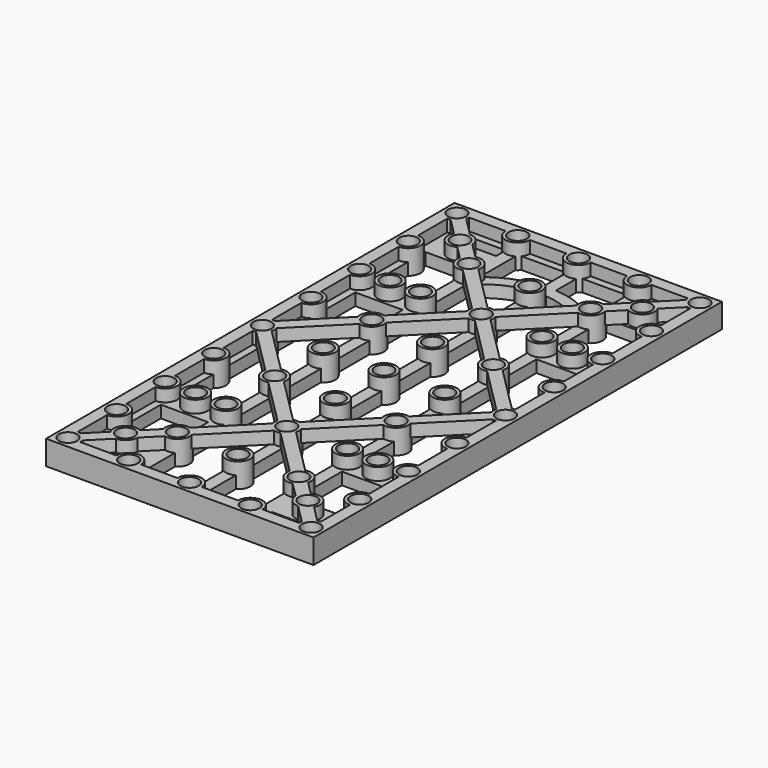
from build123d import *

# Parameters (mm, degrees)
SKETCH182_W             = 210
SKETCH182_H             = 110
SKETCH182_W_2           = 194
SKETCH182_H_2           = 94
PAD081_DEPTH            = 5
SKETCH183_W             = 200
SKETCH183_H             = 5
PAD082_DEPTH            = 5
SKETCH184_W             = 210
SKETCH184_H             = 110
SKETCH184_W_2           = 200
SKETCH184_H_2           = 100
PAD083_DEPTH            = 5
PAD084_DEPTH            = 5
SKETCH186_R             = 5
PAD085_DEPTH            = 5
SKETCH201_W             = 12
SKETCH201_H             = 25
PAD091_DEPTH            = 5
SKETCH202_R             = 5
PAD092_DEPTH            = 5
PAD093_DEPTH            = 5
SKETCH208_R             = 2.25
POCKET081_DEPTH         = 5
SKETCH209_R             = 3.75
POCKET082_DEPTH         = 4
POCKET083_DEPTH         = 3.5
BODY023_ROLL_ANGLE      = 180
BODY023_PLACEMENT_ANGLE = -90


with BuildPart() as part:
    # Sketch182 → Pad081 (new body)
    with BuildSketch(Plane.XY):
        Rectangle(SKETCH182_W, SKETCH182_H)
        Rectangle(SKETCH182_W_2, SKETCH182_H_2, mode=Mode.SUBTRACT)
    extrude(amount=PAD081_DEPTH)

    # Sketch183 → Pad082 (join)
    with BuildSketch(Plane.XY):
        with Locations((0, 25)):
            Rectangle(SKETCH183_W, SKETCH183_H)
        Rectangle(SKETCH183_W, SKETCH183_H)
        with Locations((0, -25)):
            Rectangle(SKETCH183_W, SKETCH183_H)
    extrude(amount=PAD082_DEPTH)

    # Sketch184 → Pad083 (join)
    with BuildSketch(Plane.XY):
        Rectangle(SKETCH184_W, SKETCH184_H)
        Rectangle(SKETCH184_W_2, SKETCH184_H_2, mode=Mode.SUBTRACT)
    extrude(amount=-PAD083_DEPTH)

    # Sketch185 → Pad084 (join)
    with BuildSketch(Plane.XY):
        Polygon((-100, 46.464466), (-53.535534, 0), (-100, -46.464466), (-100, -50), (-96.464466, -50), (-50, -3.535534), (-3.535534, -50), (3.535534, -50), (50, -3.535534), (96.464466, -50), (100, -50), (100, -46.464466), (53.535534, 0), (100, 46.464466), (100, 50), (96.464466, 50), (50, 3.535534), (3.535534, 50), (-3.535534, 50), (-50, 3.535534), (-96.464466, 50), (-100, 50), align=None)
        Polygon((0, 46.464466), (46.464466, 0), (0, -46.464466), (-46.464466, 0), align=None, mode=Mode.SUBTRACT)
    extrude(amount=-PAD084_DEPTH)

    # Sketch186 → Pad085 (join, symmetric)
    with BuildSketch(Plane.XY):
        with Locations((-100, 50)):
            Circle(SKETCH186_R)
        with Locations((-75, 50)):
            Circle(SKETCH186_R)
        with Locations((-50, 50)):
            Circle(SKETCH186_R)
        with Locations((-25, 50)):
            Circle(SKETCH186_R)
        with Locations((0, 50)):
            Circle(SKETCH186_R)
        with Locations((25, 50)):
            Circle(SKETCH186_R)
        with Locations((50, 50)):
            Circle(SKETCH186_R)
        with Locations((75, 50)):
            Circle(SKETCH186_R)
        with Locations((100, 50)):
            Circle(SKETCH186_R)
        with Locations((-100, 25)):
            Circle(SKETCH186_R)
        with Locations((-75, 25)):
            Circle(SKETCH186_R)
        with Locations((-50, 25)):
            Circle(SKETCH186_R)
        with Locations((-25, 25)):
            Circle(SKETCH186_R)
        with Locations((0, 25)):
            Circle(SKETCH186_R)
        with Locations((25, 25)):
            Circle(SKETCH186_R)
        with Locations((50, 25)):
            Circle(SKETCH186_R)
        with Locations((75, 25)):
            Circle(SKETCH186_R)
        with Locations((100, 0)):
            Circle(SKETCH186_R)
        with Locations((100, 25)):
            Circle(SKETCH186_R)
        with Locations((100, -25)):
            Circle(SKETCH186_R)
        with Locations((100, -50)):
            Circle(SKETCH186_R)
        with Locations((75, -50)):
            Circle(SKETCH186_R)
        with Locations((50, -50)):
            Circle(SKETCH186_R)
        with Locations((25, -50)):
            Circle(SKETCH186_R)
        with Locations((0, -50)):
            Circle(SKETCH186_R)
        with Locations((-25, -50)):
            Circle(SKETCH186_R)
        with Locations((-50, -50)):
            Circle(SKETCH186_R)
        with Locations((-75, -50)):
            Circle(SKETCH186_R)
        with Locations((-100, -50)):
            Circle(SKETCH186_R)
        with Locations((-100, -25)):
            Circle(SKETCH186_R)
        with Locations((-100, 0)):
            Circle(SKETCH186_R)
        with Locations((-75, 0)):
            Circle(SKETCH186_R)
        with Locations((-75, -25)):
            Circle(SKETCH186_R)
        with Locations((-50, 0)):
            Circle(SKETCH186_R)
        with Locations((-50, -25)):
            Circle(SKETCH186_R)
        with Locations((-25, 0)):
            Circle(SKETCH186_R)
        with Locations((-25, -25)):
            Circle(SKETCH186_R)
        Circle(SKETCH186_R)
        with Locations((25, -25)):
            Circle(SKETCH186_R)
        with Locations((25, 0)):
            Circle(SKETCH186_R)
        with Locations((50, 0)):
            Circle(SKETCH186_R)
        with Locations((50, -25)):
            Circle(SKETCH186_R)
        with Locations((0, -25)):
            Circle(SKETCH186_R)
        with Locations((75, 0)):
            Circle(SKETCH186_R)
        with Locations((75, -25)):
            Circle(SKETCH186_R)
    extrude(amount=PAD085_DEPTH, both=True)

    # Sketch201 → Pad091 (join)
    with BuildSketch(Plane.XY):
        with Locations((86, -37.5)):
            Rectangle(SKETCH201_W, SKETCH201_H)
        with Locations((50, -37.5)):
            Rectangle(SKETCH201_W, SKETCH201_H)
        with Locations((86, 37.5)):
            Rectangle(SKETCH201_W, SKETCH201_H)
        with Locations((50, 37.5)):
            Rectangle(SKETCH201_W, SKETCH201_H)
        with Locations((-50, 37.5)):
            Rectangle(SKETCH201_W, SKETCH201_H)
        with Locations((-86, 37.5)):
            Rectangle(SKETCH201_W, SKETCH201_H)
        with Locations((-50, -37.5)):
            Rectangle(SKETCH201_W, SKETCH201_H)
        with Locations((-86, -37.5)):
            Rectangle(SKETCH201_W, SKETCH201_H)
    extrude(amount=PAD091_DEPTH)

    # Sketch202 → Pad092 (join, symmetric)
    with BuildSketch(Plane.XY):
        with Locations((86, -37.5)):
            Circle(SKETCH202_R)
        with Locations((50, -37.5)):
            Circle(SKETCH202_R)
        with Locations((86, 37.5)):
            Circle(SKETCH202_R)
        with Locations((50, 37.5)):
            Circle(SKETCH202_R)
        with Locations((-50, 37.5)):
            Circle(SKETCH202_R)
        with Locations((-86, 37.5)):
            Circle(SKETCH202_R)
        with Locations((-50, -37.5)):
            Circle(SKETCH202_R)
        with Locations((-86, -37.5)):
            Circle(SKETCH202_R)
    extrude(amount=PAD092_DEPTH, both=True)

    # Sketch205 → Pad093 (join)
    with BuildSketch(Plane.XY):
        with BuildLine():
            ThreePointArc((-75, 25), (-85.355339, 0), (-75, -25))
            Line((-75, -25), (-71.464466, -21.464466))
            ThreePointArc((-71.464466, 21.464466), (-80.355339, 0), (-71.464466, -21.464466))
            Line((-75, 25), (-71.464466, 21.464466))
        make_face()
    extrude(amount=PAD093_DEPTH)

    # Sketch208 → Pocket081 (cut, symmetric)
    with BuildSketch(Plane.XY):
        with Locations((-100, 50)):
            Circle(SKETCH208_R)
        with Locations((-75, 50)):
            Circle(SKETCH208_R)
        with Locations((-50, 50)):
            Circle(SKETCH208_R)
        with Locations((-25, 50)):
            Circle(SKETCH208_R)
        with Locations((0, 50)):
            Circle(SKETCH208_R)
        with Locations((25, 50)):
            Circle(SKETCH208_R)
        with Locations((50, 50)):
            Circle(SKETCH208_R)
        with Locations((75, 50)):
            Circle(SKETCH208_R)
        with Locations((100, 50)):
            Circle(SKETCH208_R)
        with Locations((-100, 25)):
            Circle(SKETCH208_R)
        with Locations((-75, 25)):
            Circle(SKETCH208_R)
        with Locations((-50, 25)):
            Circle(SKETCH208_R)
        with Locations((-25, 25)):
            Circle(SKETCH208_R)
        with Locations((0, 25)):
            Circle(SKETCH208_R)
        with Locations((25, 25)):
            Circle(SKETCH208_R)
        with Locations((50, 25)):
            Circle(SKETCH208_R)
        with Locations((75, 25)):
            Circle(SKETCH208_R)
        with Locations((100, 0)):
            Circle(SKETCH208_R)
        with Locations((100, 25)):
            Circle(SKETCH208_R)
        with Locations((100, -25)):
            Circle(SKETCH208_R)
        with Locations((100, -50)):
            Circle(SKETCH208_R)
        with Locations((75, -50)):
            Circle(SKETCH208_R)
        with Locations((50, -50)):
            Circle(SKETCH208_R)
        with Locations((25, -50)):
            Circle(SKETCH208_R)
        with Locations((0, -50)):
            Circle(SKETCH208_R)
        with Locations((-25, -50)):
            Circle(SKETCH208_R)
        with Locations((-50, -50)):
            Circle(SKETCH208_R)
        with Locations((-75, -50)):
            Circle(SKETCH208_R)
        with Locations((-100, -50)):
            Circle(SKETCH208_R)
        with Locations((-100, -25)):
            Circle(SKETCH208_R)
        with Locations((-100, 0)):
            Circle(SKETCH208_R)
        with Locations((-75, 0)):
            Circle(SKETCH208_R)
        with Locations((-75, -25)):
            Circle(SKETCH208_R)
        with Locations((-50, 0)):
            Circle(SKETCH208_R)
        with Locations((-50, -25)):
            Circle(SKETCH208_R)
        with Locations((-25, 0)):
            Circle(SKETCH208_R)
        with Locations((-25, -25)):
            Circle(SKETCH208_R)
        Circle(SKETCH208_R)
        with Locations((25, -25)):
            Circle(SKETCH208_R)
        with Locations((25, 0)):
            Circle(SKETCH208_R)
        with Locations((50, 0)):
            Circle(SKETCH208_R)
        with Locations((50, -25)):
            Circle(SKETCH208_R)
        with Locations((0, -25)):
            Circle(SKETCH208_R)
        with Locations((75, 0)):
            Circle(SKETCH208_R)
        with Locations((75, -25)):
            Circle(SKETCH208_R)
        with Locations((-50, 37.5)):
            Circle(SKETCH208_R)
        with Locations((-86, 37.5)):
            Circle(SKETCH208_R)
        with Locations((50, 37.5)):
            Circle(SKETCH208_R)
        with Locations((86, 37.5)):
            Circle(SKETCH208_R)
        with Locations((50, -37.5)):
            Circle(SKETCH208_R)
        with Locations((86, -37.5)):
            Circle(SKETCH208_R)
        with Locations((-86, -37.5)):
            Circle(SKETCH208_R)
        with Locations((-50, -37.5)):
            Circle(SKETCH208_R)
    extrude(amount=POCKET081_DEPTH, both=True, mode=Mode.SUBTRACT)

    # Sketch209 (on Face761 of Pocket081) → Pocket082 (cut)
    with BuildSketch(Plane(origin=(0, 0, -5), x_dir=(1, 0, 0), z_dir=(0, 0, -1))):
        with Locations((-100, 50)):
            Circle(SKETCH209_R)
        with Locations((-75, 50)):
            Circle(SKETCH209_R)
        with Locations((-50, 50)):
            Circle(SKETCH209_R)
        with Locations((-25, 50)):
            Circle(SKETCH209_R)
        with Locations((0, 50)):
            Circle(SKETCH209_R)
        with Locations((25, 50)):
            Circle(SKETCH209_R)
        with Locations((50, 50)):
            Circle(SKETCH209_R)
        with Locations((75, 50)):
            Circle(SKETCH209_R)
        with Locations((100, 50)):
            Circle(SKETCH209_R)
        with Locations((-100, 25)):
            Circle(SKETCH209_R)
        with Locations((-75, 25)):
            Circle(SKETCH209_R)
        with Locations((-50, 25)):
            Circle(SKETCH209_R)
        with Locations((-25, 25)):
            Circle(SKETCH209_R)
        with Locations((0, 25)):
            Circle(SKETCH209_R)
        with Locations((25, 25)):
            Circle(SKETCH209_R)
        with Locations((50, 25)):
            Circle(SKETCH209_R)
        with Locations((75, 25)):
            Circle(SKETCH209_R)
        with Locations((100, 0)):
            Circle(SKETCH209_R)
        with Locations((100, 25)):
            Circle(SKETCH209_R)
        with Locations((100, -25)):
            Circle(SKETCH209_R)
        with Locations((100, -50)):
            Circle(SKETCH209_R)
        with Locations((75, -50)):
            Circle(SKETCH209_R)
        with Locations((50, -50)):
            Circle(SKETCH209_R)
        with Locations((25, -50)):
            Circle(SKETCH209_R)
        with Locations((0, -50)):
            Circle(SKETCH209_R)
        with Locations((-25, -50)):
            Circle(SKETCH209_R)
        with Locations((-50, -50)):
            Circle(SKETCH209_R)
        with Locations((-75, -50)):
            Circle(SKETCH209_R)
        with Locations((-100, -50)):
            Circle(SKETCH209_R)
        with Locations((-100, -25)):
            Circle(SKETCH209_R)
        with Locations((-100, 0)):
            Circle(SKETCH209_R)
        with Locations((-75, 0)):
            Circle(SKETCH209_R)
        with Locations((-75, -25)):
            Circle(SKETCH209_R)
        with Locations((-50, 0)):
            Circle(SKETCH209_R)
        with Locations((-50, -25)):
            Circle(SKETCH209_R)
        with Locations((-25, 0)):
            Circle(SKETCH209_R)
        with Locations((-25, -25)):
            Circle(SKETCH209_R)
        Circle(SKETCH209_R)
        with Locations((25, -25)):
            Circle(SKETCH209_R)
        with Locations((25, 0)):
            Circle(SKETCH209_R)
        with Locations((50, 0)):
            Circle(SKETCH209_R)
        with Locations((50, -25)):
            Circle(SKETCH209_R)
        with Locations((0, -25)):
            Circle(SKETCH209_R)
        with Locations((75, 0)):
            Circle(SKETCH209_R)
        with Locations((75, -25)):
            Circle(SKETCH209_R)
        with Locations((-50, 37.5)):
            Circle(SKETCH209_R)
        with Locations((-86, 37.5)):
            Circle(SKETCH209_R)
        with Locations((50, 37.5)):
            Circle(SKETCH209_R)
        with Locations((86, 37.5)):
            Circle(SKETCH209_R)
        with Locations((50, -37.5)):
            Circle(SKETCH209_R)
        with Locations((86, -37.5)):
            Circle(SKETCH209_R)
        with Locations((-86, -37.5)):
            Circle(SKETCH209_R)
        with Locations((-50, -37.5)):
            Circle(SKETCH209_R)
    extrude(amount=-POCKET082_DEPTH, mode=Mode.SUBTRACT)

    # Sketch210 (on Face445 of Pocket082) → Pocket083 (cut)
    with BuildSketch(Plane.XY.offset(5)):
        Polygon((-84, 34.035898), (-82, 37.5), (-84, 40.964102), (-88, 40.964102), (-90, 37.5), (-88, 34.035898), align=None)
        Polygon((-98, 46.535898), (-96, 50), (-98, 53.464102), (-102, 53.464102), (-104, 50), (-102, 46.535898), align=None)
        Polygon((-73, 46.535898), (-71, 50), (-73, 53.464102), (-77, 53.464102), (-79, 50), (-77, 46.535898), align=None)
        Polygon((-48, 46.535898), (-46, 50), (-48, 53.464102), (-52, 53.464102), (-54, 50), (-52, 46.535898), align=None)
        Polygon((-23, 46.535898), (-21, 50), (-23, 53.464102), (-27, 53.464102), (-29, 50), (-27, 46.535898), align=None)
        Polygon((2, 46.535898), (4, 50), (2, 53.464102), (-2, 53.464102), (-4, 50), (-2, 46.535898), align=None)
        Polygon((27, 46.535898), (29, 50), (27, 53.464102), (23, 53.464102), (21, 50), (23, 46.535898), align=None)
        Polygon((52, 46.535898), (54, 50), (52, 53.464102), (48, 53.464102), (46, 50), (48, 46.535898), align=None)
        Polygon((77, 46.535898), (79, 50), (77, 53.464102), (73, 53.464102), (71, 50), (73, 46.535898), align=None)
        Polygon((102, 46.535898), (104, 50), (102, 53.464102), (98, 53.464102), (96, 50), (98, 46.535898), align=None)
        Polygon((98, 21.535898), (102, 21.535898), (104, 25), (102, 28.464102), (98, 28.464102), (96, 25), align=None)
        Polygon((102, -3.464102), (104, 0), (102, 3.464102), (98, 3.464102), (96, 0), (98, -3.464102), align=None)
        Polygon((102, -28.464102), (104, -25), (102, -21.535898), (98, -21.535898), (96, -25), (98, -28.464102), align=None)
        Polygon((102, -53.464102), (104, -50), (102, -46.535898), (98, -46.535898), (96, -50), (98, -53.464102), align=None)
        Polygon((77, -53.464102), (79, -50), (77, -46.535898), (73, -46.535898), (71, -50), (73, -53.464102), align=None)
        Polygon((52, -53.464102), (54, -50), (52, -46.535898), (48, -46.535898), (46, -50), (48, -53.464102), align=None)
        Polygon((27, -53.464102), (29, -50), (27, -46.535898), (23, -46.535898), (21, -50), (23, -53.464102), align=None)
        Polygon((2, -53.464102), (4, -50), (2, -46.535898), (-2, -46.535898), (-4, -50), (-2, -53.464102), align=None)
        Polygon((-23, -53.464102), (-21, -50), (-23, -46.535898), (-27, -46.535898), (-29, -50), (-27, -53.464102), align=None)
        Polygon((-48, -53.464102), (-46, -50), (-48, -46.535898), (-52, -46.535898), (-54, -50), (-52, -53.464102), align=None)
        Polygon((-73, -53.464102), (-71, -50), (-73, -46.535898), (-77, -46.535898), (-79, -50), (-77, -53.464102), align=None)
        Polygon((-98, -53.464102), (-96, -50), (-98, -46.535898), (-102, -46.535898), (-104, -50), (-102, -53.464102), align=None)
        Polygon((-98, -28.464102), (-96, -25), (-98, -21.535898), (-102, -21.535898), (-104, -25), (-102, -28.464102), align=None)
        Polygon((-98, -3.464102), (-96, 0), (-98, 3.464102), (-102, 3.464102), (-104, 0), (-102, -3.464102), align=None)
        Polygon((-98, 21.535898), (-96, 25), (-98, 28.464102), (-102, 28.464102), (-104, 25), (-102, 21.535898), align=None)
        Polygon((-46, 37.5), (-48, 40.964102), (-52, 40.964102), (-54, 37.5), (-52, 34.035898), (-48, 34.035898), align=None)
        Polygon((-84, -40.964102), (-82, -37.5), (-84, -34.035898), (-88, -34.035898), (-90, -37.5), (-88, -40.964102), align=None)
        Polygon((-46, -37.5), (-48, -34.035898), (-52, -34.035898), (-54, -37.5), (-52, -40.964102), (-48, -40.964102), align=None)
        Polygon((-73, 21.535898), (-71, 25), (-73, 28.464102), (-77, 28.464102), (-79, 25), (-77, 21.535898), align=None)
        Polygon((-73, -3.464102), (-71, 0), (-73, 3.464102), (-77, 3.464102), (-79, 0), (-77, -3.464102), align=None)
        Polygon((-73, -28.464102), (-71, -25), (-73, -21.535898), (-77, -21.535898), (-79, -25), (-77, -28.464102), align=None)
        Polygon((-48, 21.535898), (-46, 25), (-48, 28.464102), (-52, 28.464102), (-54, 25), (-52, 21.535898), align=None)
        Polygon((-48, -3.464102), (-46, 0), (-48, 3.464102), (-52, 3.464102), (-54, 0), (-52, -3.464102), align=None)
        Polygon((-48, -28.464102), (-46, -25), (-48, -21.535898), (-52, -21.535898), (-54, -25), (-52, -28.464102), align=None)
        Polygon((-23, -28.464102), (-21, -25), (-23, -21.535898), (-27, -21.535898), (-29, -25), (-27, -28.464102), align=None)
        Polygon((-23, -3.464102), (-21, 0), (-23, 3.464102), (-27, 3.464102), (-29, 0), (-27, -3.464102), align=None)
        Polygon((2, -3.464102), (4, 0), (2, 3.464102), (-2, 3.464102), (-4, 0), (-2, -3.464102), align=None)
        Polygon((-23, 21.535898), (-21, 25), (-23, 28.464102), (-27, 28.464102), (-29, 25), (-27, 21.535898), align=None)
        Polygon((2, 21.535898), (4, 25), (2, 28.464102), (-2, 28.464102), (-4, 25), (-2, 21.535898), align=None)
        Polygon((2, -28.464102), (4, -25), (2, -21.535898), (-2, -21.535898), (-4, -25), (-2, -28.464102), align=None)
        Polygon((27, 21.535898), (29, 25), (27, 28.464102), (23, 28.464102), (21, 25), (23, 21.535898), align=None)
        Polygon((27, -3.464102), (29, 0), (27, 3.464102), (23, 3.464102), (21, 0), (23, -3.464102), align=None)
        Polygon((27, -28.464102), (29, -25), (27, -21.535898), (23, -21.535898), (21, -25), (23, -28.464102), align=None)
        Polygon((54, -37.5), (52, -34.035898), (48, -34.035898), (46, -37.5), (48, -40.964102), (52, -40.964102), align=None)
        Polygon((52, -28.464102), (54, -25), (52, -21.535898), (48, -21.535898), (46, -25), (48, -28.464102), align=None)
        Polygon((88, -40.964102), (90, -37.5), (88, -34.035898), (84, -34.035898), (82, -37.5), (84, -40.964102), align=None)
        Polygon((77, -28.464102), (79, -25), (77, -21.535898), (73, -21.535898), (71, -25), (73, -28.464102), align=None)
        Polygon((77, -3.464102), (79, 0), (77, 3.464102), (73, 3.464102), (71, 0), (73, -3.464102), align=None)
        Polygon((52, -3.464102), (54, 0), (52, 3.464102), (48, 3.464102), (46, 0), (48, -3.464102), align=None)
        Polygon((77, 21.535898), (79, 25), (77, 28.464102), (73, 28.464102), (71, 25), (73, 21.535898), align=None)
        Polygon((52, 21.535898), (54, 25), (52, 28.464102), (48, 28.464102), (46, 25), (48, 21.535898), align=None)
        Polygon((52, 34.035898), (54, 37.5), (52, 40.964102), (48, 40.964102), (46, 37.5), (48, 34.035898), align=None)
        Polygon((88, 34.035898), (90, 37.5), (88, 40.964102), (84, 40.964102), (82, 37.5), (84, 34.035898), align=None)
    extrude(amount=-POCKET083_DEPTH, mode=Mode.SUBTRACT)


with BuildPart() as part_1:
    # Body023 roll: moved
    add(part.part.rotate(Axis((0, 0, 0), (1, 0, 0)), BODY023_ROLL_ANGLE))


with BuildPart() as part_2:
    # Body023 placement: moved
    add(part_1.part.moved(Location((66, 81, 107))).rotate(Axis((66, 81, 107), (0, 0, 1)), BODY023_PLACEMENT_ANGLE))


solid = part_2.part
